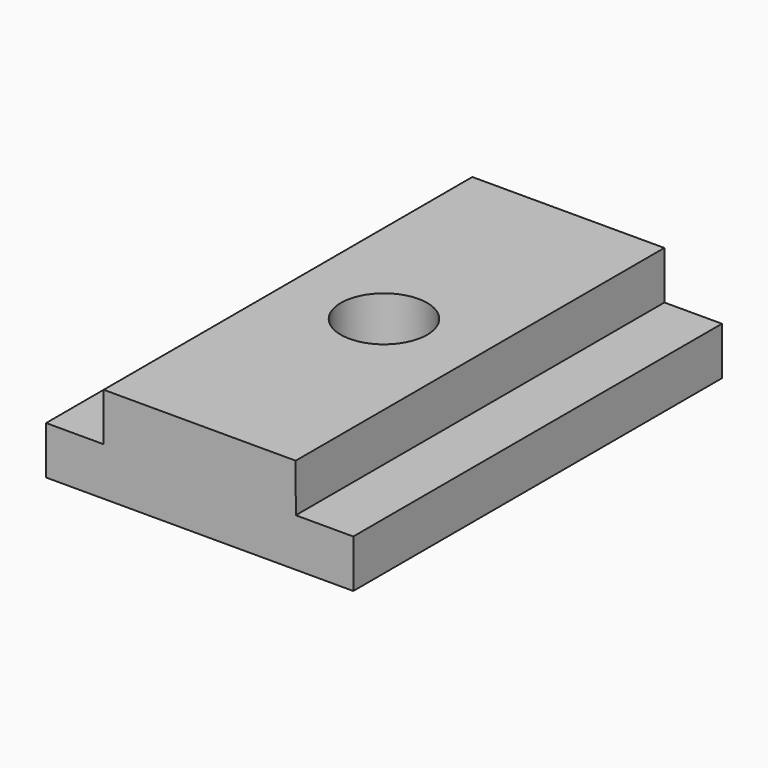
from build123d import *

# Parameters (mm, degrees)
F1_DEPTH = 152.4
F2_R     = 14.2875
F3_DEPTH = 31.751


with BuildPart() as f1:
    # F0 (on Front) → F1 (new body)
    with BuildSketch(Plane.XZ):
        Polygon((20.005639, 19.875003), (19.970003, 35.750003), (-43.529997, 35.750003), (-43.529997, 19.875003), (-62.579997, 19.875003), (-62.579997, 4.000003), (39.020003, 4.000003), (39.020003, 19.875003), align=None)
    extrude(amount=F1_DEPTH)

    # F2 (on face) → F3 (cut, through all)
    with BuildSketch(Plane.XY.offset(35.750003)):
        with Locations((-11.779997, -76.2)):
            Circle(F2_R)
    extrude(amount=-F3_DEPTH, mode=Mode.SUBTRACT)


solid = f1.part
